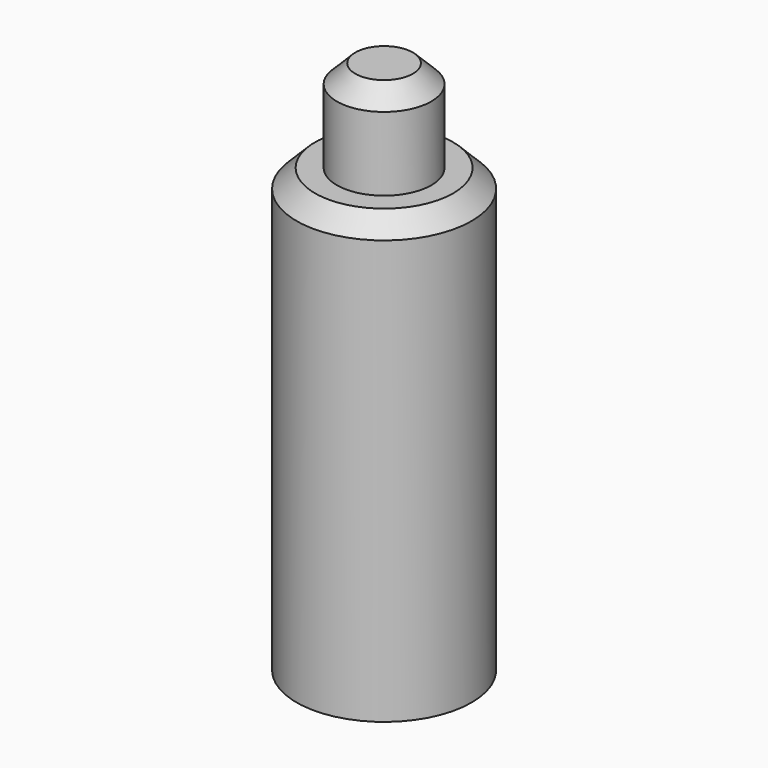
from build123d import *

# Parameters (mm, degrees)
SKETCH012_R     = 1.9
PAD005_DEPTH    = 9.6
SKETCH013_R     = 1.025
PAD006_DEPTH    = 2
CHAMFER002_SIZE = 0.4
CHAMFER003_SIZE = 0.4


with BuildPart() as part:
    # Sketch012 → Pad005 (new body)
    with BuildSketch(Plane.XY):
        Circle(SKETCH012_R)
    extrude(amount=PAD005_DEPTH)

    # Sketch013 (on Face3 of Pad005) → Pad006 (join)
    with BuildSketch(Plane.XY.offset(9.6)):
        Circle(SKETCH013_R)
    extrude(amount=PAD006_DEPTH)

    # Chamfer002
    chamfer002_edges = [part.edges().sort_by_distance(p)[0] for p in [
        (-1.025, 0, 11.6),
    ]]
    chamfer(chamfer002_edges, length=CHAMFER002_SIZE)

    # Chamfer003
    chamfer003_edges = [part.edges().sort_by_distance(p)[0] for p in [
        (-1.9, 0, 9.6),
    ]]
    chamfer(chamfer003_edges, length=CHAMFER003_SIZE)


with BuildPart() as part_1:
    # Body002 placement: moved
    add(part.part.moved(Location((27.1, 44.5, 0))))


solid = part_1.part
